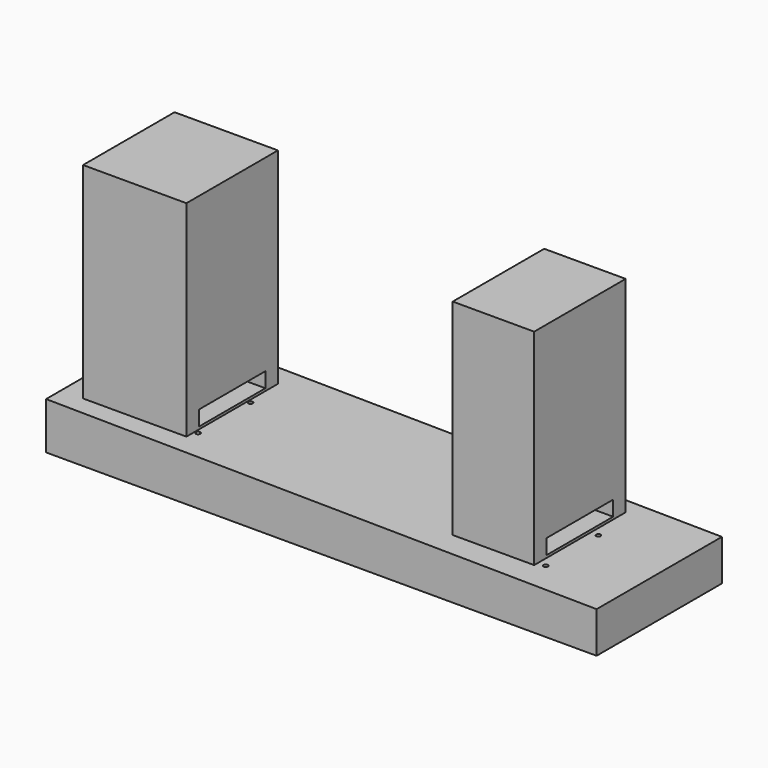
from build123d import *

# Parameters (mm, degrees)
F1_DEPTH  = 500
F3_D      = 14
F3_DEPTH  = 80
F3_TIP    = 4.2060243332
F5_W      = 330
F5_H      = 365
F6_DEPTH  = 8
F5_W_2    = 260
F9_DEPTH  = 48
F11_W     = 260
F11_H     = 365
F12_DEPTH = 600
F10_W     = 330
F10_H     = 365


with BuildPart() as f1:
    # F0 (on Front) → F1 (new body)
    with BuildSketch(Plane.XZ):
        Polygon((1757.1579754596, -18.9547816518), (0, 0), (0, -150), (1757.1579754596, -150), align=None)
    extrude(amount=-F1_DEPTH)

    # F3
    with Locations(Plane(origin=(0, 0, 0), x_dir=(0.9999418234, 0, -0.0107865537), z_dir=(0.0107865537, 0, 0.9999418234))):
        with Locations((125, 310), (125, 100), (405, 100), (405, 310), (1305, 100), (1515, 100), (1515, 310), (1305, 310)):
            Hole(F3_D / 2, depth=F3_DEPTH)
            with Locations((0, 0, -(F3_DEPTH + F3_TIP / 2))):  # 118° drill point
                Cone(0, F3_D / 2, F3_TIP, mode=Mode.SUBTRACT)


with BuildPart() as f6:
    # F5 (on offset) → F6 (new body)
    with BuildSketch(Plane(origin=(0, 0, 25), x_dir=(1, 0, 0), z_dir=(0, 0, -1))):
        with Locations((264.9927279296, -205)):
            Rectangle(F5_W, F5_H)
    extrude(amount=-F6_DEPTH)

    # F7 (on face) → F9, piece 2 (join)
    with BuildSketch(Plane.XY.offset(33)):
        Polygon((99.9927279296, 387.5), (99.9927279296, 337.5), (159.9927279296, 337.5), (159.9927279296, 72.5), (99.9927279296, 72.5), (99.9927279296, 22.5), (429.9927279296, 22.5), (429.9927279296, 72.5), (369.9927279296, 72.5), (369.9927279296, 337.5), (429.9927279296, 337.5), (429.9927279296, 387.5), align=None)
    extrude(amount=F9_DEPTH)

    # F10 (on face) → F12, piece 2 (join)
    with BuildSketch(Plane.XY.offset(81)):
        with Locations((264.9927279296, 205)):
            Rectangle(F10_W, F10_H)
    extrude(amount=F12_DEPTH)


with BuildPart() as f6b:
    # F5 (on offset) → F6, piece 2 (new body)
    with BuildSketch(Plane(origin=(0, 0, 25), x_dir=(1, 0, 0), z_dir=(0, 0, -1))):
        with Locations((1409.9240795853, -205)):
            Rectangle(F5_W_2, F5_H)
    extrude(amount=-F6_DEPTH)

    # F8 (on face) → F9 (join)
    with BuildSketch(Plane.XY.offset(33)):
        Polygon((1279.9240795853, 387.5), (1279.9240795853, 337.5), (1339.9240795853, 337.5), (1339.9240795853, 72.5), (1279.9240795853, 72.5), (1279.9240795853, 22.5), (1539.9240795853, 22.5), (1539.9240795853, 72.5), (1479.9240795853, 72.5), (1479.9240795853, 337.5), (1539.9240795853, 337.5), (1539.9240795853, 387.5), align=None)
    extrude(amount=F9_DEPTH)

    # F11 (on face) → F12 (join)
    with BuildSketch(Plane.XY.offset(81)):
        with Locations((1409.9240795853, 205)):
            Rectangle(F11_W, F11_H)
    extrude(amount=F12_DEPTH)


solid = Compound([f1.part, f6.part, f6b.part])
